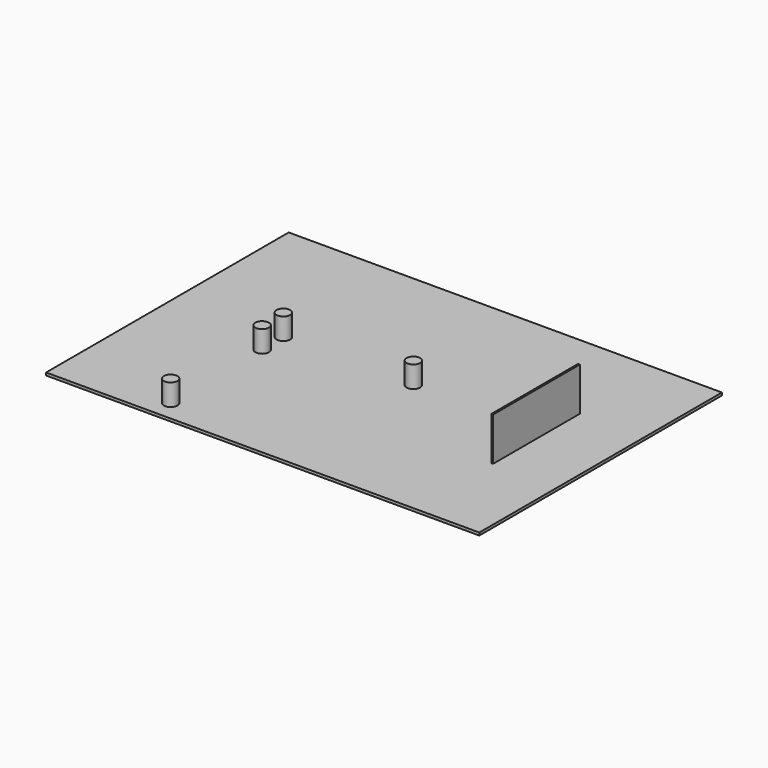
from build123d import *

# Parameters (mm, degrees)
F0_W     = 254
F0_H     = 177.8
F1_DEPTH = 1.5875
F2_W     = 1.058418
F2_H     = 63.5
F3_DEPTH = 25.4
F4_R     = 3.96875
F5_DEPTH = 12.7
F6_R     = 3.96875
F7_DEPTH = 12.7


with BuildPart() as f1:
    # F0 (on Top) → F1 (new body)
    with BuildSketch(Plane.XY):
        with Locations((29.202467, -74.189657)):
            Rectangle(F0_W, F0_H)
    extrude(amount=F1_DEPTH)

    # F2 (on face) → F3 (join)
    with BuildSketch(Plane.XY.offset(1.5875)):
        with Locations((118.058609, -74.189657)):
            Rectangle(F2_W, F2_H)
    extrude(amount=F3_DEPTH)

    # F4 (on face) → F5 (join)
    with BuildSketch(Plane.XY.offset(1.5875)):
        with Locations((-34.60809, -83.712486)):
            Circle(F4_R)
        with Locations((-34.8706, -67.839657)):
            Circle(F4_R)
    extrude(amount=F5_DEPTH)

    # F6 (on face) → F7 (join)
    with BuildSketch(Plane.XY.offset(1.5875)):
        with Locations((41.3294, -67.839657)):
            Circle(F6_R)
        with Locations((-34.297533, -151.180522)):
            Circle(F6_R)
    extrude(amount=F7_DEPTH)


solid = f1.part
